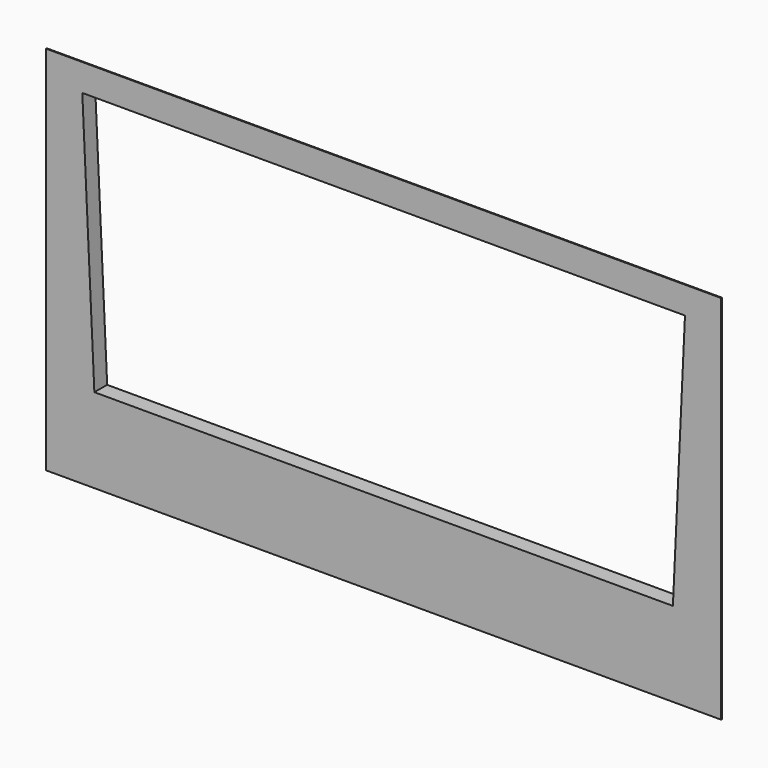
from build123d import *

# Parameters (mm, degrees)
F0_W     = 2237
F0_H     = 1230
F1_DEPTH = 3
F3_DEPTH = 3.001
F5_DEPTH = 50


with BuildPart() as f1:
    # F0 (on Front) → F1 (new body)
    with BuildSketch(Plane.XZ):
        Rectangle(F0_W, F0_H)
    extrude(amount=F1_DEPTH)

    # F2 (on face) → F3 (cut, through all)
    with BuildSketch(Plane.XZ.offset(3)):
        Polygon((958.5, -335), (998.5, 525), (-998.5, 525), (-958.5, -335), (0, -335), align=None)
    extrude(amount=-F3_DEPTH, mode=Mode.SUBTRACT)

    # F4 (on face) → F5 (join)
    with BuildSketch(Plane(origin=(0, 0, 0), x_dir=(-1, 0, 0), z_dir=(0, 1, 0))):
        Polygon((1003.737964, 530), (-1003.737964, 530), (-963.272847, -340), (963.272847, -340), align=None)
        Polygon((-998.5, 525), (998.5, 525), (958.5, -335), (-958.5, -335), align=None, mode=Mode.SUBTRACT)
    extrude(amount=F5_DEPTH)


solid = f1.part
